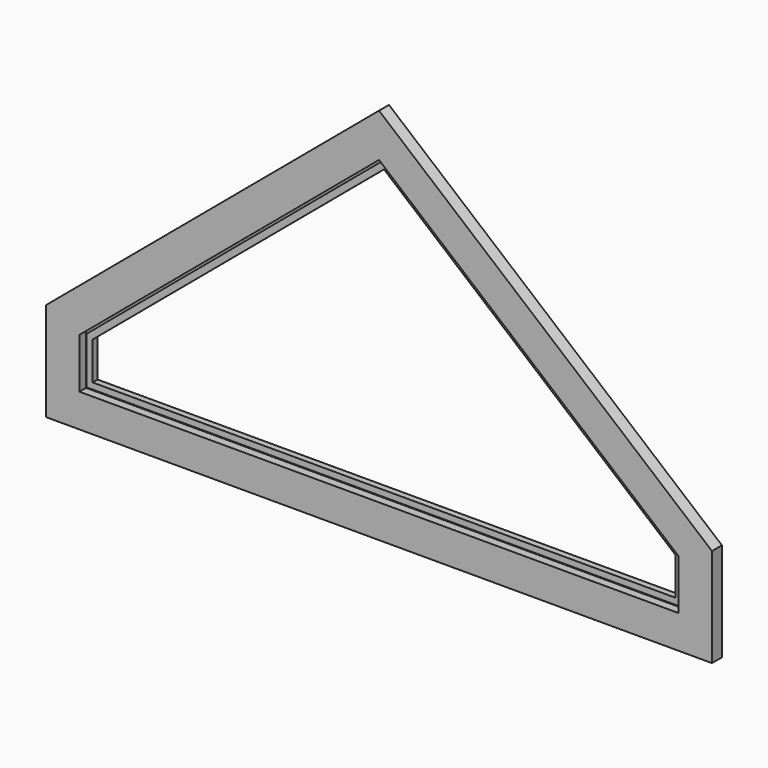
from build123d import *

# Parameters (mm, degrees)
F1_DEPTH = 19.05
F4_DEPTH = 9.525
F6_DEPTH = 3.175


with BuildPart() as f1:
    # F0 (on Front) → F1 (new body)
    with BuildSketch(Plane.XZ):
        Polygon((-508.79375, 0), (0, 0), (508.79375, 0), (508.79375, 150.8125), (0, 577.85), (-508.79375, 150.8125), align=None)
        Polygon((0, 63.5), (-445.29375, 63.5), (-445.29375, 121.206816), (0, 494.947904), (445.29375, 121.206816), (445.29375, 63.5), align=None, mode=Mode.SUBTRACT)
    extrude(amount=F1_DEPTH)

    # F3 (on face) → F4 (cut)
    with BuildSketch(Plane.XZ.offset(19.05)):
        Polygon((457.99375, 50.8), (457.99375, 127.127953), (0, 511.528323), (-457.99375, 127.127953), (-457.99375, 50.8), align=None)
        Polygon((-445.29375, 63.5), (-445.29375, 121.206816), (0, 494.947904), (445.29375, 121.206816), (445.29375, 63.5), align=None, mode=Mode.SUBTRACT)
    extrude(amount=-F4_DEPTH, mode=Mode.SUBTRACT)

    # F5 (on face) → F6 (cut)
    with BuildSketch(Plane.XZ.offset(9.525)):
        Polygon((0, 511.528323), (-457.99375, 127.127953), (-457.99375, 50.8), (457.99375, 50.8), (457.99375, 127.127953), align=None)
        Polygon((0, 507.383218), (454.81875, 125.647669), (454.81875, 53.975), (-454.81875, 53.975), (-454.81875, 125.647669), align=None, mode=Mode.SUBTRACT)
    extrude(amount=-F6_DEPTH, mode=Mode.SUBTRACT)


solid = f1.part
